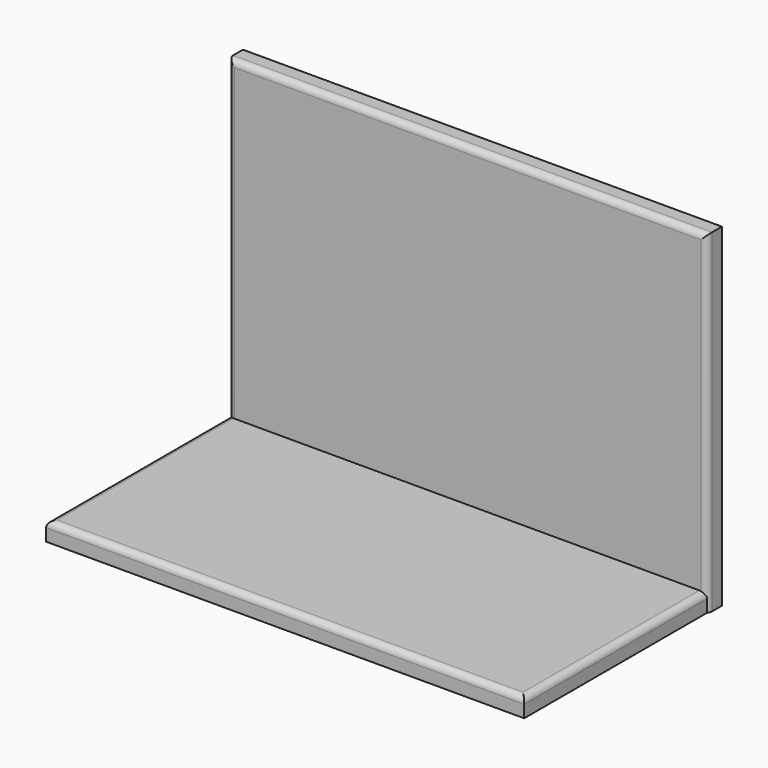
from build123d import *

# Parameters (mm, degrees)
F1_W     = 98.493554
F1_H     = 68.641916
F2_DEPTH = 3.81
F0_W     = 98.33321
F0_H     = 50.405774
F3_DEPTH = 3.81
F4_R     = 1.27
F5_R     = 1.27


with BuildPart() as f2:
    # F1 (on Front) → F2 (new body)
    with BuildSketch(Plane.XZ):
        with Locations((2.817497, 34.320958)):
            Rectangle(F1_W, F1_H)
    extrude(amount=F2_DEPTH)

    # F0 (on Top) → F3 (join)
    with BuildSketch(Plane.XY):
        with Locations((2.568968, -25.202887)):
            Rectangle(F0_W, F0_H)
    extrude(amount=F3_DEPTH)

    # F4
    f4_edges = [f2.edges().sort_by_distance(p)[0] for p in [
        (-46.42928, -3.81, 36.225958),
        (2.817497, -3.81, 68.641916),
        (52.064274, -3.81, 34.320958),
    ]]
    fillet(f4_edges, radius=F4_R)

    # F5
    f5_edges = [f2.edges().sort_by_distance(p)[0] for p in [
        (2.568968, -50.405774, 3.81),
        (51.735573, -26.899166, 3.81),
        (-46.597637, -25.202887, 3.81),
    ]]
    fillet(f5_edges, radius=F5_R)


solid = f2.part
